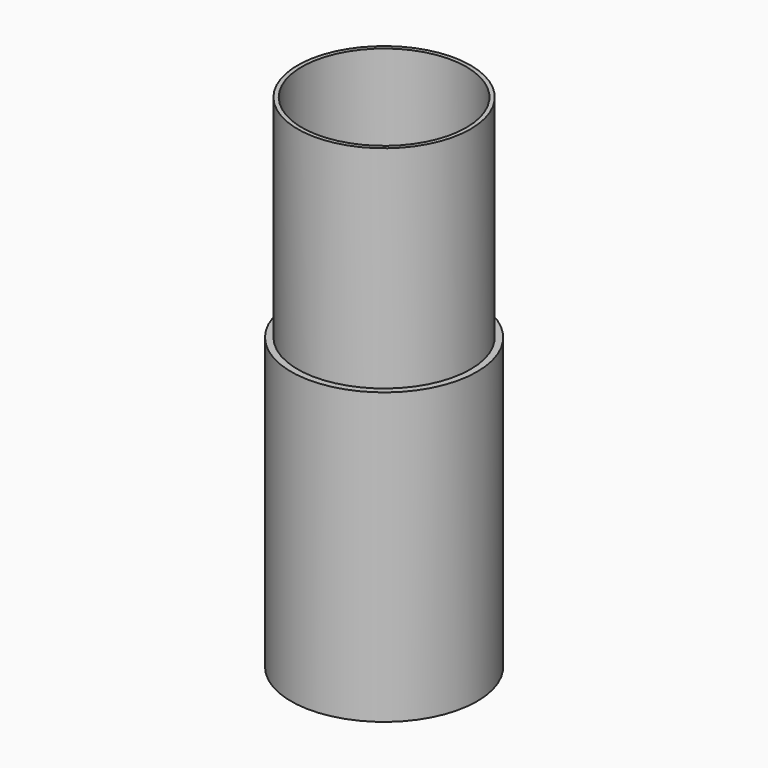
from build123d import *

# Parameters (mm, degrees)
F0_R     = 4.4958
F0_R_2   = 4.2799
F1_DEPTH = 21.0058
F2_R     = 4.8387
F2_R_2   = 4.4958
F3_DEPTH = 10.0076
F4_DEPTH = 5.08


with BuildPart() as f1:
    # F0 (on Top) → F1 (new body)
    with BuildSketch(Plane.XY):
        Circle(F0_R)
        Circle(F0_R_2, mode=Mode.SUBTRACT)
    extrude(amount=F1_DEPTH)

    # F2 (on Top) → F3 (join)
    with BuildSketch(Plane.XY):
        Circle(F2_R)
        Circle(F2_R_2, mode=Mode.SUBTRACT)
    extrude(amount=F3_DEPTH)

    # F2 (on Top) → F4 (join)
    with BuildSketch(Plane.XY):
        Circle(F2_R)
        Circle(F2_R_2, mode=Mode.SUBTRACT)
    extrude(amount=-F4_DEPTH)


solid = f1.part
